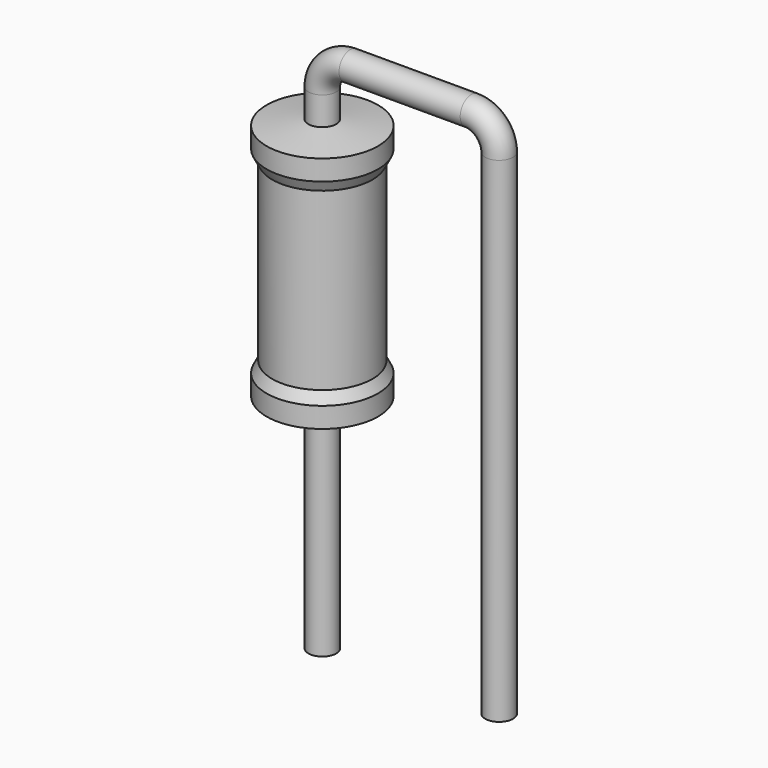
from build123d import *

# Parameters (mm, degrees)
SKETCH_R = 0.2


with BuildPart() as sweep_body:
    # Sweep: sweep along a path in Sketch001
    with BuildLine(Plane.XZ) as sweep_path:
        Line((0, -3), (0, 4.1))
        ThreePointArc((0, 4.1), (0.117156, 4.382841), (0.399995, 4.5))
        Line((0.399995, 4.5), (2.14, 4.5))
        ThreePointArc((2.14, 4.5), (2.422843, 4.382843), (2.54, 4.1))
        Line((2.54, 4.1), (2.54, -3))
    # Sketch → Sweep (sweep)
    with BuildSketch(Plane.XY.offset(-2)):
        Circle(SKETCH_R)
    sweep(path=sweep_path.line)


with BuildPart() as revolution:
    # Sketch002 → Revolution (revolve)
    with BuildSketch(Plane.XZ):
        Polygon((0, 0.1), (0, 3.7), (0.15, 3.7), (0.8, 3.61), (0.8, 3.3175), (0.72, 3.16), (0.72, 0.64), (0.8, 0.4825), (0.8, 0.19), (0.15, 0.1), align=None)
    revolve(axis=Axis((0, 0, 0), (0, 0, 1)))


solid = Compound([sweep_body.part, revolution.part])
